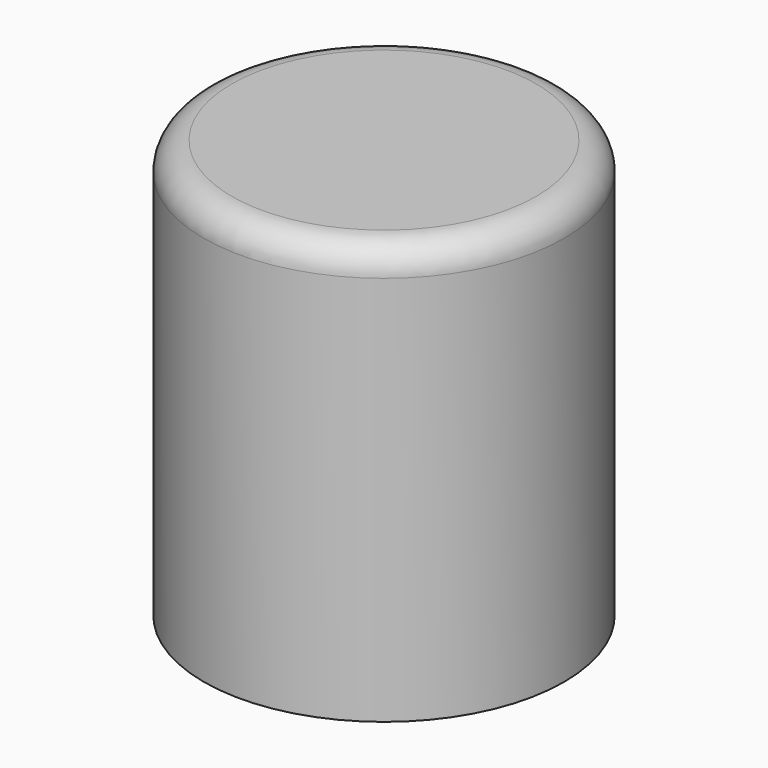
from build123d import *

# Parameters (mm, degrees)
F0_R     = 32.815242
F1_DEPTH = 76.2
F2_R     = 5.08
F3_R     = 26.928884
F4_DEPTH = 50.8


with BuildPart() as f1:
    # F0 (on Top) → F1 (new body)
    with BuildSketch(Plane.XY):
        Circle(F0_R)
    extrude(amount=F1_DEPTH)

    # F2
    f2_edges = [f1.edges().sort_by_distance(p)[0] for p in [
        (-32.815242, 0, 76.2),
    ]]
    fillet(f2_edges, radius=F2_R)

    # F3 (on face) → F4 (cut)
    with BuildSketch(Plane(origin=(0, 0, 0), x_dir=(1, 0, 0), z_dir=(0, 0, -1))):
        Circle(F3_R)
    extrude(amount=-F4_DEPTH, mode=Mode.SUBTRACT)


solid = f1.part
